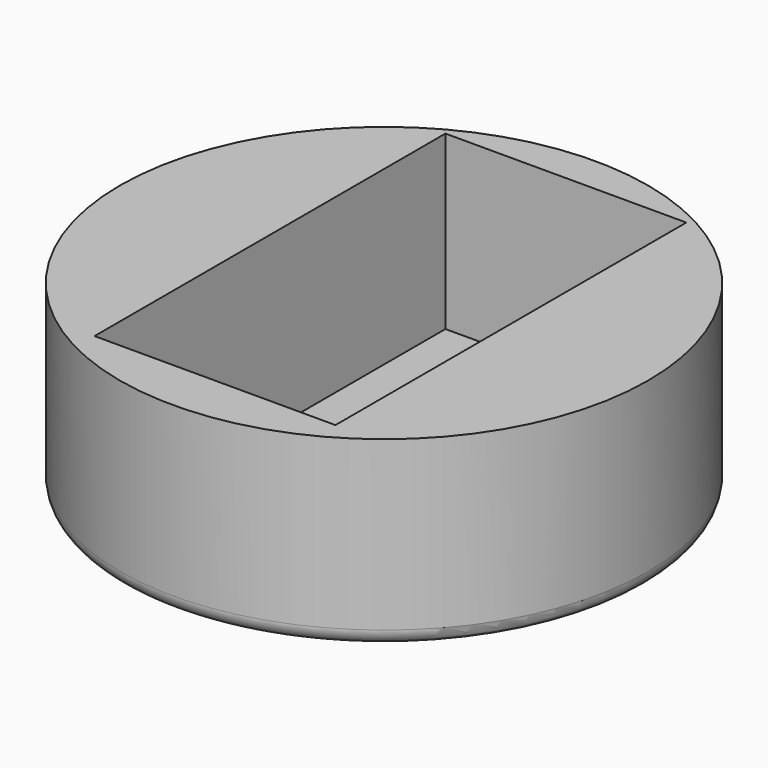
from build123d import *

# Parameters (mm, degrees)
SKETCH_R     = 33
PAD_DEPTH    = 23
SKETCH001_W  = 30.1
SKETCH001_H  = 54.8
POCKET_DEPTH = 21.5
FILLET_R     = 2


with BuildPart() as part:
    # Sketch → Pad (new body)
    with BuildSketch(Plane.XY):
        Circle(SKETCH_R)
    extrude(amount=PAD_DEPTH)

    # Sketch001 (on Face3 of Pad) → Pocket (cut)
    with BuildSketch(Plane.XY.offset(23)):
        with Locations((0, 1.004219)):
            Rectangle(SKETCH001_W, SKETCH001_H)
    extrude(amount=-POCKET_DEPTH, mode=Mode.SUBTRACT)

    # Fillet
    fillet_edges = [part.edges().sort_by_distance(p)[0] for p in [
        (-33, 0, 0),
    ]]
    fillet(fillet_edges, radius=FILLET_R)


solid = part.part
